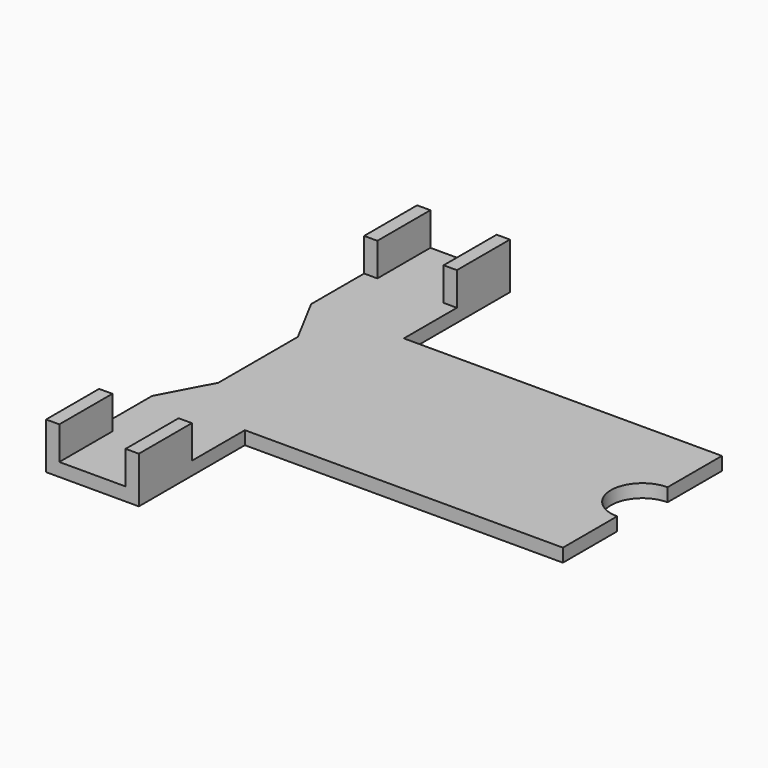
from build123d import *

# Parameters (mm, degrees)
F1_DEPTH = 2
F0_W     = 2
F0_H     = 10
F2_DEPTH = 7
F5_DEPTH = 25


with BuildPart() as f1:
    # F0 (on Top) → F1 (new body)
    with BuildSketch(Plane.XY):
        with BuildLine():
            Line((0, 15), (-48, 15))
            Line((-48, 15), (-48, 25))
            Line((-48, 25), (-50, 25))
            Line((-50, 25), (-50, 35))
            Line((-50, 35), (-60, 35))
            Line((-60, 35), (-60, 25))
            Line((-60, 25), (-62, 25))
            Line((-62, 25), (-62, -25))
            Line((-62, -25), (-60, -25))
            Line((-60, -25), (-60, -35))
            Line((-60, -35), (-50, -35))
            Line((-50, -35), (-50, -25))
            Line((-50, -25), (-48, -25))
            Line((-48, -25), (-48, -15))
            Line((-48, -15), (0, -15))
            Line((0, -15), (0, -4.75))
            ThreePointArc((0, -4.75), (-4.75, 0), (0, 4.75))
            Line((0, 4.75), (0, 15))
        make_face()
    extrude(amount=F1_DEPTH)

    # F0 (on Top) → F2 (join)
    with BuildSketch(Plane.XY):
        with Locations((-61, 30)):
            Rectangle(F0_W, F0_H)
        with Locations((-49, 30)):
            Rectangle(F0_W, F0_H)
        with Locations((-61, -30)):
            Rectangle(F0_W, F0_H)
        with Locations((-49, -30)):
            Rectangle(F0_W, F0_H)
    extrude(amount=F2_DEPTH)

    # F4 (on face) → F5 (cut)
    with BuildSketch(Plane.XY.offset(2)):
        Polygon((-62, 15), (-62, -15), (-58, -7.5), (-58, 7.5), align=None)
    extrude(amount=-F5_DEPTH, mode=Mode.SUBTRACT)


solid = f1.part
